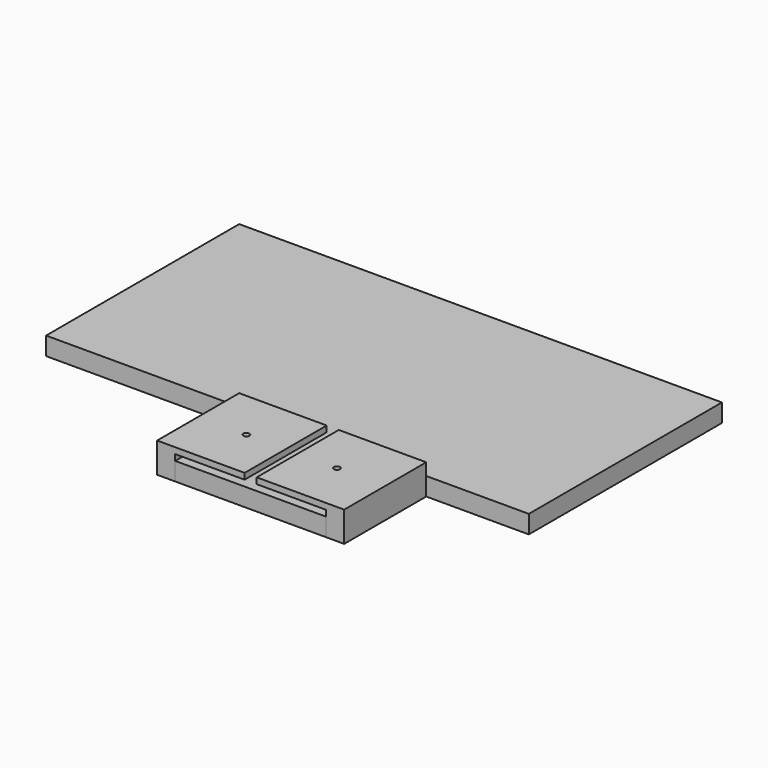
from build123d import *

# Parameters (mm, degrees)
F0_W     = 25
F0_H     = 17
F0_H_2   = 40
F1_DEPTH = 3
F0_W_2   = 3
F2_DEPTH = 5
F3_W     = 17
F3_H     = 1
F4_DEPTH = 11.5
F5_W     = 17
F5_H     = 1
F6_DEPTH = 11.5
F8_D     = 1
F8_2_D   = 1
F10_D    = 1
F10_2_D  = 1


with BuildPart() as f1:
    # F0 (on Top) → F1 (new body)
    with BuildSketch(Plane.XY):
        with Locations((11.49063, -11.605833)):
            Rectangle(F0_W, F0_H)
        Polygon((-36.00937, 36.894167), (-36.00937, -3.105833), (-4.00937, -3.105833), (-1.00937, -3.105833), (-1.00937, 36.894167), align=None)
        with Locations((11.49063, 16.894167)):
            Rectangle(F0_W, F0_H_2)
        Polygon((23.99063, 36.894167), (23.99063, -3.105833), (26.99063, -3.105833), (43.99063, -3.105833), (43.99063, 36.894167), align=None)
    extrude(amount=F1_DEPTH)

    # F8 (through all)
    with Locations(Plane.XY.offset(5)):
        with Locations((3.99063, -11.605833)):
            Hole(F8_D / 2)

    # F10 (through all)
    with Locations(Plane.XY.offset(5)):
        with Locations((18.99063, -11.605833)):
            Hole(F10_D / 2)


with BuildPart() as f2:
    # F0 (on Top) → F2 (new body)
    with BuildSketch(Plane.XY):
        with Locations((-2.50937, -11.605833)):
            Rectangle(F0_W_2, F0_H)
        with Locations((25.49063, -11.605833)):
            Rectangle(F0_W_2, F0_H)
    extrude(amount=F2_DEPTH)

    # F3 (on face) → F4 (join)
    with BuildSketch(Plane.YZ.offset(-1.00937)):
        with Locations((-11.605833, 4.5)):
            Rectangle(F3_W, F3_H)
    extrude(amount=F4_DEPTH)

    # F5 (on face) → F6 (join)
    with BuildSketch(Plane(origin=(23.99063, 0, 0), x_dir=(0, -1, 0), z_dir=(-1, 0, 0))):
        with Locations((11.605833, 4.5)):
            Rectangle(F5_W, F5_H)
    extrude(amount=F6_DEPTH)

    # F8#2 (through all)
    with Locations(Plane.XY.offset(5)):
        with Locations((3.99063, -11.605833)):
            Hole(F8_2_D / 2)

    # F10#2 (through all)
    with Locations(Plane.XY.offset(5)):
        with Locations((18.99063, -11.605833)):
            Hole(F10_2_D / 2)


solid = Compound([f1.part, f2.part])
